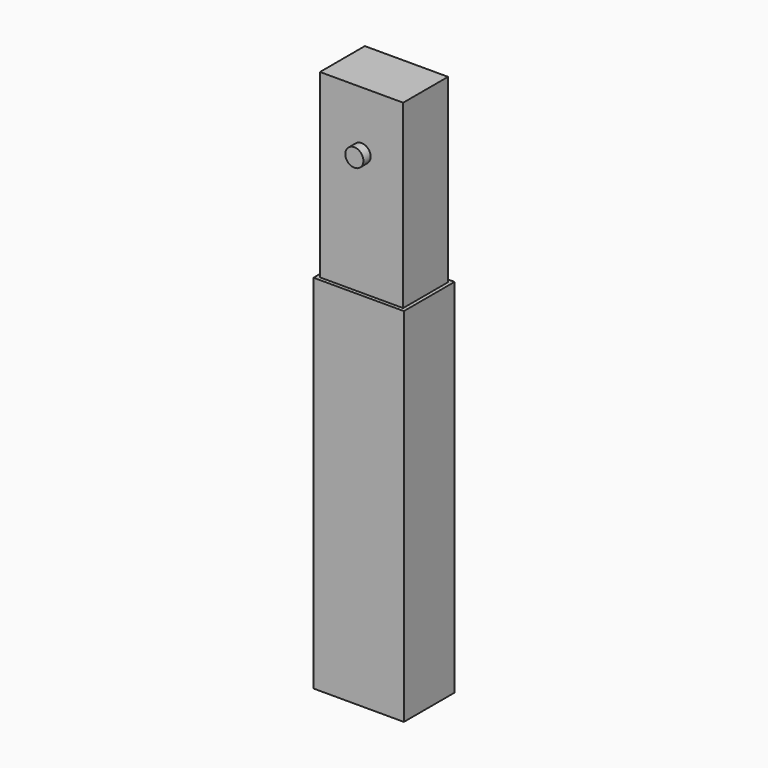
from build123d import *

# Parameters (mm, degrees)
F0_W     = 50
F0_H     = 35
F1_DEPTH = 200
F2_T     = -2
F3_W     = 46
F3_H     = 31
F4_DEPTH = 100
F5_T     = -2
F6_R     = 5
F7_DEPTH = 5


with BuildPart() as f1:
    # F0 (on Top) → F1 (new body)
    with BuildSketch(Plane.XY):
        with Locations((0, 32.5)):
            Rectangle(F0_W, F0_H)
    extrude(amount=F1_DEPTH)

    # F2
    f2_openings = [f1.faces().sort_by_distance(p)[0] for p in [
        (0, 32.5, 200),
    ]]
    offset(amount=F2_T, openings=f2_openings)


with BuildPart() as f4:
    # F3 (on face) → F4 (new body)
    with BuildSketch(Plane.XY.offset(200)):
        with Locations((0, 32.5)):
            Rectangle(F3_W, F3_H)
    extrude(amount=F4_DEPTH)

    # F5
    f5_openings = [f4.faces().sort_by_distance(p)[0] for p in [
        (0, 32.5, 200),
    ]]
    offset(amount=F5_T, openings=f5_openings)

    # F6 (on face) → F7 (join)
    with BuildSketch(Plane.XZ.offset(-17)):
        with Locations((0, 267.8875625134)):
            Circle(F6_R)
    extrude(amount=F7_DEPTH)


solid = Compound([f1.part, f4.part])
